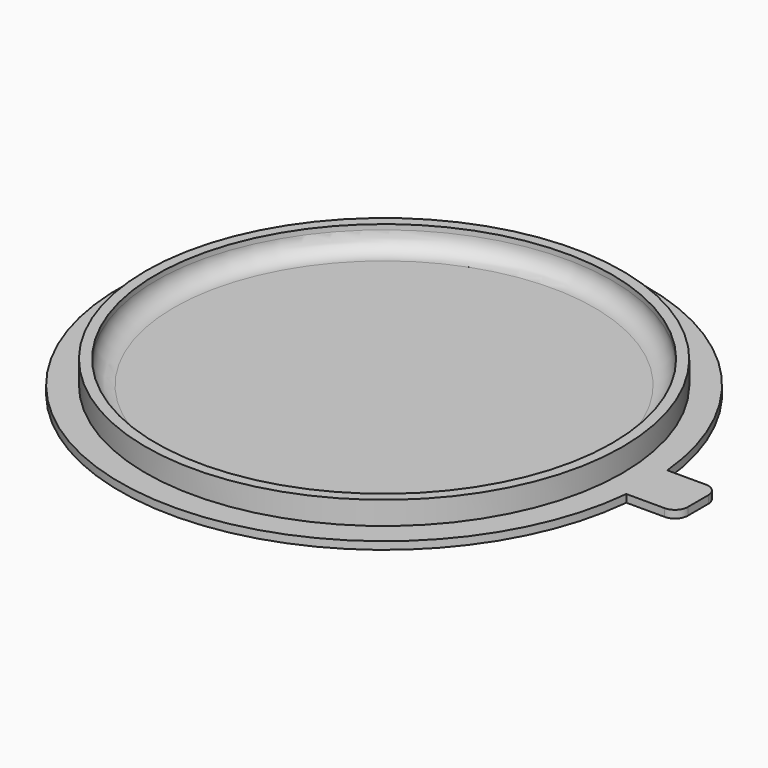
from build123d import *

# Parameters (mm, degrees)
F0_R     = 93
F0_R_2   = 89
F1_DEPTH = 3
F2_DEPTH = 12
F3_R     = 7


with BuildPart() as f1:
    # F0 (on Top) → F1 (new body)
    with BuildSketch(Plane.XY):
        with BuildLine():
            ThreePointArc((102.5134137564, -10), (102.8782815197, -5.0059156548), (103, 0))
            ThreePointArc((103, 0), (102.8782815197, 5.0059156548), (102.5134137564, 10))
            ThreePointArc((102.5134137564, 10), (-103, 0), (102.5134137564, -10))
        make_face()
        Circle(F0_R, mode=Mode.SUBTRACT)
        Circle(F0_R)
        Circle(F0_R_2, mode=Mode.SUBTRACT)
        Circle(F0_R_2)
        with BuildLine():
            ThreePointArc((102.5134137564, 10), (102.8782815197, 5.0059156548), (103, 0))
            ThreePointArc((103, 0), (102.8782815197, -5.0059156548), (102.5134137564, -10))
            Line((102.5134137564, -10), (117.5134137564, -10))
            ThreePointArc((117.5134137564, -10), (121.0489476624, -8.5355339059), (122.5134137564, -5))
            Line((122.5134137564, -5), (122.5134137564, 0))
            Line((122.5134137564, 0), (122.5134137564, 5))
            ThreePointArc((122.5134137564, 5), (121.0489476624, 8.5355339059), (117.5134137564, 10))
            Line((117.5134137564, 10), (102.5134137564, 10))
        make_face()
    extrude(amount=F1_DEPTH)

    # F0 (on Top) → F2 (join)
    with BuildSketch(Plane.XY):
        Circle(F0_R)
        Circle(F0_R_2, mode=Mode.SUBTRACT)
    extrude(amount=F2_DEPTH)

    # F3
    f3_edges = [f1.edges().sort_by_distance(p)[0] for p in [
        (-89, 0, 3),
    ]]
    fillet(f3_edges, radius=F3_R)


solid = f1.part
